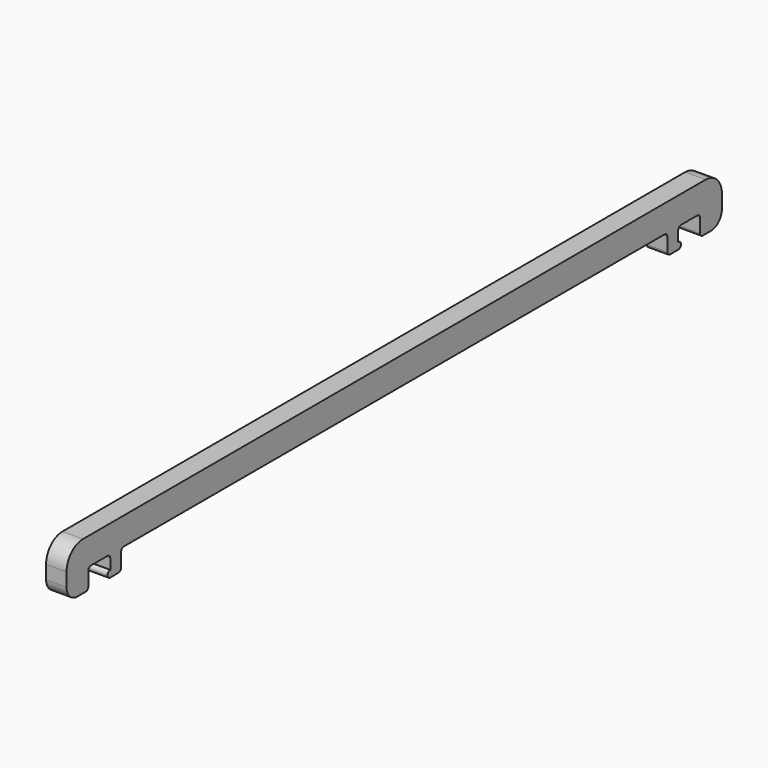
from build123d import *

# Parameters (mm, degrees)
F0_W     = 2
F0_H     = 2
F1_DEPTH = 1.5
F2_R     = 0.5


with BuildPart() as f1:
    # F0 (on Right) → F1 (new body, symmetric)
    with BuildSketch(Plane.YZ):
        with BuildLine():
            Line((-50, 0), (0, 0))
            Line((0, 0), (0, 4))
            Line((0, 4), (-57, 4))
            ThreePointArc((-57, 4), (-59.12132, 3.12132), (-60, 1))
            Line((-60, 1), (-60, 0))
            Line((-60, 0), (-56, 0))
            Line((-56, 0), (-52, 0))
            Line((-52, 0), (-50, 0))
        make_face()
        with Locations((-51, -1)):
            Rectangle(F0_W, F0_H)
        with BuildLine():
            Line((-50, -2.5), (-50, -2))
            Line((-50, -2), (-52, -2))
            Line((-52, -2), (-52, -3))
            Line((-52, -3), (-50.5, -3))
            ThreePointArc((-50.5, -3), (-50.146447, -2.853553), (-50, -2.5))
        make_face()
        with BuildLine():
            Line((-56, -2.5), (-56, 0))
            Line((-56, 0), (-60, 0))
            Line((-60, 0), (-60, -1))
            ThreePointArc((-60, -1), (-59.414214, -2.414214), (-58, -3))
            Line((-58, -3), (-56.5, -3))
            ThreePointArc((-56.5, -3), (-56.146447, -2.853553), (-56, -2.5))
        make_face()
        with BuildLine():
            Line((-52, -3), (-52, -2))
            ThreePointArc((-52, -2), (-52.5, -2.5), (-52, -3))
        make_face()
    extrude(amount=F1_DEPTH, both=True)

    # F2
    f2_edges = [f1.edges().sort_by_distance(p)[0] for p in [
        (0, -56, 0),
        (0, -52, 0),
        (0, -50, 0),
    ]]
    fillet(f2_edges, radius=F2_R)

    # F3: F1 across face


with BuildPart() as f1_1:
    add(f1.part)
    add(f1.part.mirror(Plane(origin=(0, 0, 2), x_dir=(-1, 0, 0), z_dir=(0, 1, 0))))


solid = f1_1.part
